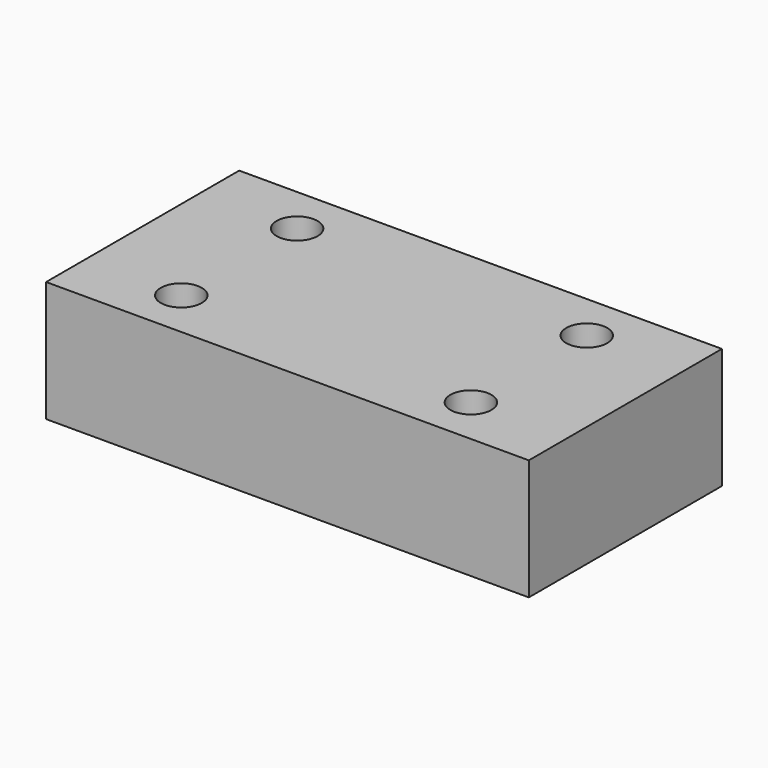
from build123d import *

# Parameters (mm, degrees)
F0_W     = 100
F0_H     = 50
F1_DEPTH = 25
F3_D     = 8.5


with BuildPart() as f1:
    # F0 (on Top) → F1 (new body)
    with BuildSketch(Plane.XY):
        with Locations((50, 25)):
            Rectangle(F0_W, F0_H)
    extrude(amount=F1_DEPTH)

    # F3 (through all)
    with Locations(Plane.XY.offset(25)):
        with Locations((20, 10), (20, 40), (80, 40), (80, 10)):
            Hole(F3_D / 2)


solid = f1.part
